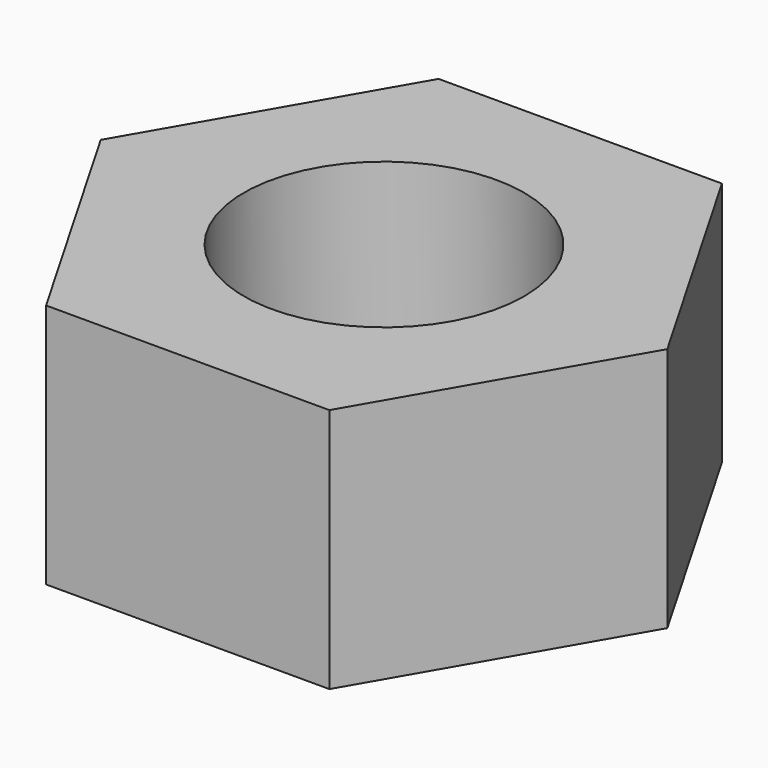
from build123d import *

# Parameters (mm, degrees)
F1_DEPTH = 5.5626
F2_R     = 3.175
F3_DEPTH = 6.08933


with BuildPart() as f1:
    # F0 (on Top) → F1 (new body)
    with BuildSketch(Plane.XY):
        Polygon((-3.207902, -5.55625), (3.207902, -5.55625), (6.415805, 0), (3.207902, 5.55625), (-3.207902, 5.55625), (-6.415805, 0), align=None)
    extrude(amount=F1_DEPTH)

    # F2 (on face) → F3 (cut)
    with BuildSketch(Plane.XY.offset(5.5626)):
        Circle(F2_R)
    extrude(amount=-F3_DEPTH, mode=Mode.SUBTRACT)


solid = f1.part
